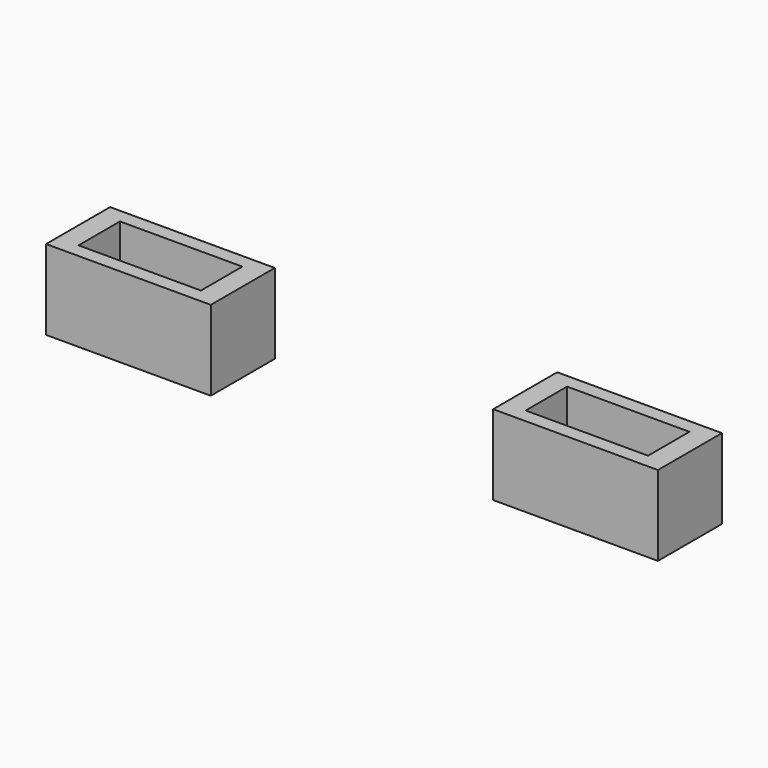
from build123d import *

# Parameters (mm, degrees)
F0_W     = 26
F0_H     = 11
F1_DEPTH = 1
F0_W_2   = 35
F0_H_2   = 17
F2_DEPTH = 17
F3_DEPTH = 1
F4_DEPTH = 17


with BuildPart() as f1:
    # F0 (on Top) → F1 (new body)
    with BuildSketch(Plane.XY):
        Rectangle(F0_W, F0_H)
    extrude(amount=F1_DEPTH)

    # F0 (on Top) → F2 (join)
    with BuildSketch(Plane.XY):
        Rectangle(F0_W_2, F0_H_2)
        Rectangle(F0_W, F0_H, mode=Mode.SUBTRACT)
    extrude(amount=F2_DEPTH)


with BuildPart() as f3:
    # F0 (on Top) → F3 (new body)
    with BuildSketch(Plane.XY):
        with Locations((95, 0)):
            Rectangle(F0_W, F0_H)
    extrude(amount=F3_DEPTH)

    # F0 (on Top) → F4 (join)
    with BuildSketch(Plane.XY):
        with Locations((95, 0)):
            Rectangle(F0_W_2, F0_H_2)
        with Locations((95, 0)):
            Rectangle(F0_W, F0_H, mode=Mode.SUBTRACT)
    extrude(amount=F4_DEPTH)


solid = Compound([f1.part, f3.part])
